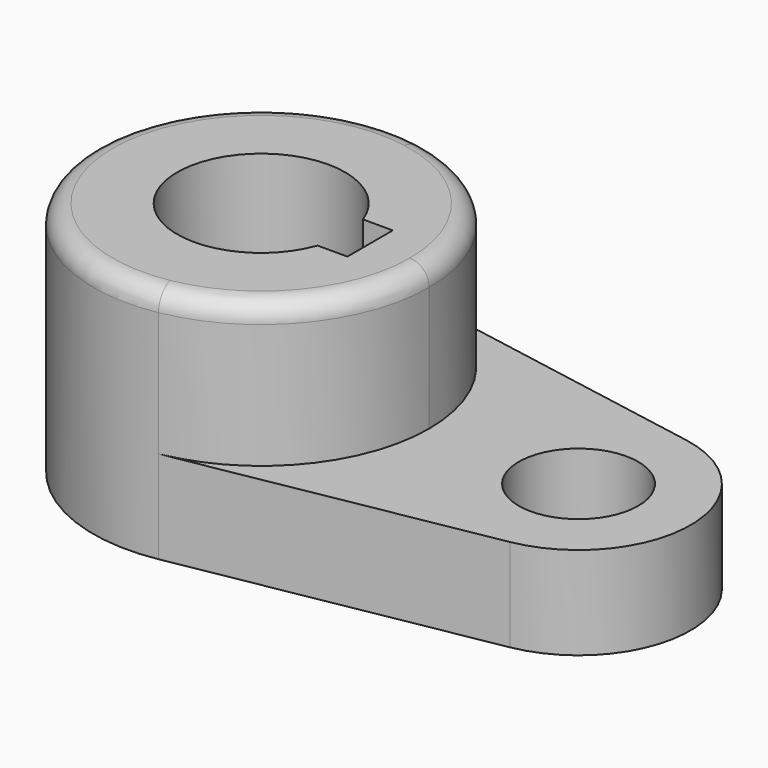
from build123d import *

# Parameters (mm, degrees)
F0_R     = 10.16
F1_DEPTH = 15.7734
F2_DEPTH = 40.2336
F3_R     = 3.302


with BuildPart() as f1:
    # F0 (on Top) → F1 (new body)
    with BuildSketch(Plane.XY):
        with BuildLine():
            Line((5.042647, -28.126541), (57.336765, -18.751028))
            ThreePointArc((57.336765, -18.751028), (73.025, 0), (57.336765, 18.751028))
            Line((57.336765, 18.751028), (5.042647, 28.126541))
            ThreePointArc((5.042647, 28.126541), (21.916025, 18.336262), (28.575, 0))
            ThreePointArc((28.575, 0), (21.916025, -18.336262), (5.042647, -28.126541))
        make_face()
        with Locations((53.975, 0)):
            Circle(F0_R, mode=Mode.SUBTRACT)
    extrude(amount=F1_DEPTH)

    # F0 (on Top) → F2 (join)
    with BuildSketch(Plane.XY):
        with BuildLine():
            ThreePointArc((5.042647, 28.126541), (-28.575, 0), (5.042647, -28.126541))
            ThreePointArc((5.042647, -28.126541), (21.916025, -18.336262), (28.575, 0))
            ThreePointArc((28.575, 0), (21.916025, 18.336262), (5.042647, 28.126541))
        make_face()
        with BuildLine():
            ThreePointArc((13.447765, -4.826), (-14.2875, 0), (13.447765, 4.826))
            Line((13.447765, 4.826), (18.527765, 4.826))
            Line((18.527765, 4.826), (18.527765, -4.826))
            Line((18.527765, -4.826), (13.447765, -4.826))
        make_face(mode=Mode.SUBTRACT)
    extrude(amount=F2_DEPTH)

    # F3
    f3_edges = [f1.edges().sort_by_distance(p)[0] for p in [
        (-5.042647, 28.126541, 40.2336),
    ]]
    fillet(f3_edges, radius=F3_R)


solid = f1.part
